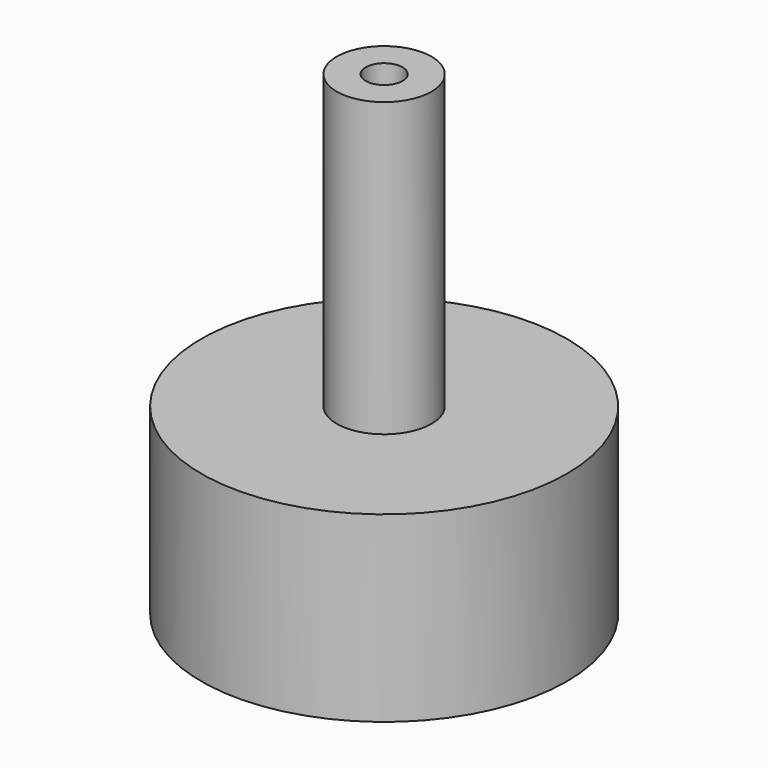
from build123d import *

# Parameters (mm, degrees)
F0_R     = 50
F0_R_2   = 23.297253
F1_DEPTH = 50
F2_R     = 23.297253
F3_DEPTH = 5
F4_R     = 12.970744
F4_R_2   = 5.052193
F5_DEPTH = 80


with BuildPart() as f1:
    # F0 (on Top) → F1 (new body)
    with BuildSketch(Plane.XY):
        with Locations((-12.402253, 3.797938)):
            Circle(F0_R)
        with Locations((-12.402253, 3.797938)):
            Circle(F0_R_2, mode=Mode.SUBTRACT)
    extrude(amount=F1_DEPTH)

    # F2 (on face) → F3 (join)
    with BuildSketch(Plane.XY.offset(50)):
        with Locations((-12.402253, 3.797938)):
            Circle(F2_R)
    extrude(amount=-F3_DEPTH)

    # F4 (on face) → F5 (join)
    with BuildSketch(Plane.XY.offset(50)):
        with Locations((-12.402253, 3.797938)):
            Circle(F4_R)
        with Locations((-12.402253, 3.797938)):
            Circle(F4_R_2, mode=Mode.SUBTRACT)
    extrude(amount=F5_DEPTH)


solid = f1.part
